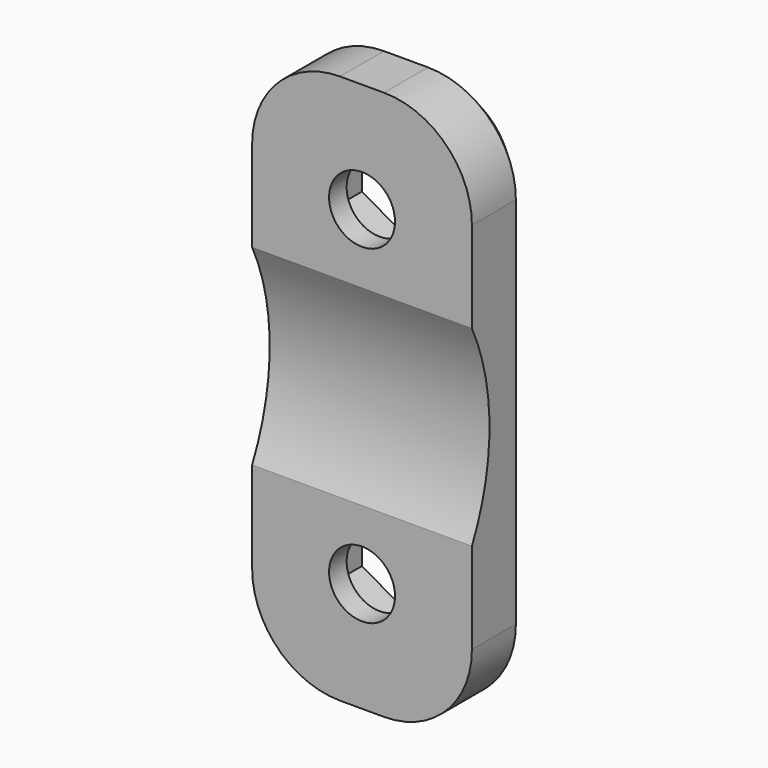
from build123d import *

# Parameters (mm, degrees)
F0_W     = 10
F0_H     = 25
F1_DEPTH = 2.5
F2_W     = 10
F2_H     = 25
F2_R     = 1.5
F3_DEPTH = 1
F4_R     = 10
F5_DEPTH = 25
F6_R     = 4
F7_SIZE  = 1


with BuildPart() as f1:
    # F0 (on Front) → F1 (new body)
    with BuildSketch(Plane.XZ):
        Rectangle(F0_W, F0_H)
        Polygon((0, -4.266838), (2.8, -5.883419), (2.8, -9.116581), (0, -10.733162), (-2.8, -9.116581), (-2.8, -5.883419), align=None, mode=Mode.SUBTRACT)
        Polygon((2.8, 5.883419), (0, 4.266838), (-2.8, 5.883419), (-2.8, 9.116581), (0, 10.733162), (2.8, 9.116581), align=None, mode=Mode.SUBTRACT)
    extrude(amount=F1_DEPTH)

    # F2 (on face) → F3 (join)
    with BuildSketch(Plane.XZ.offset(2.5)):
        Rectangle(F2_W, F2_H)
        Polygon((-2.8, -5.883419), (0, -4.266838), (2.8, -5.883419), (2.8, -9.116581), (0, -10.733162), (-2.8, -9.116581), align=None, mode=Mode.SUBTRACT)
        Polygon((-2.8, 9.116581), (0, 10.733162), (2.8, 9.116581), (2.8, 5.883419), (0, 4.266838), (-2.8, 5.883419), align=None, mode=Mode.SUBTRACT)
        Polygon((2.8, 9.116581), (0, 10.733162), (-2.8, 9.116581), (-2.8, 5.883419), (0, 4.266838), (2.8, 5.883419), align=None)
        with Locations((0, 7.5)):
            Circle(F2_R, mode=Mode.SUBTRACT)
        Polygon((2.8, -5.883419), (0, -4.266838), (-2.8, -5.883419), (-2.8, -9.116581), (0, -10.733162), (2.8, -9.116581), align=None)
        with Locations((0, -7.5)):
            Circle(F2_R, mode=Mode.SUBTRACT)
    extrude(amount=F3_DEPTH)

    # F4 (on face) → F5 (cut)
    with BuildSketch(Plane.YZ.offset(5)):
        with Locations((-12.5, 0)):
            Circle(F4_R)
    extrude(amount=-F5_DEPTH, mode=Mode.SUBTRACT)

    # F6
    f6_edges = [f1.edges().sort_by_distance(p)[0] for p in [
        (5, -1.75, 12.5),
        (-5, -1.75, 12.5),
        (-5, -1.75, -12.5),
        (5, -1.75, -12.5),
    ]]
    fillet(f6_edges, radius=F6_R)

    # F7
    f7_edges = [f1.edges().sort_by_distance(p)[0] for p in [
        (5, 0, 0),
    ]]
    chamfer(f7_edges, length=F7_SIZE)


solid = f1.part
